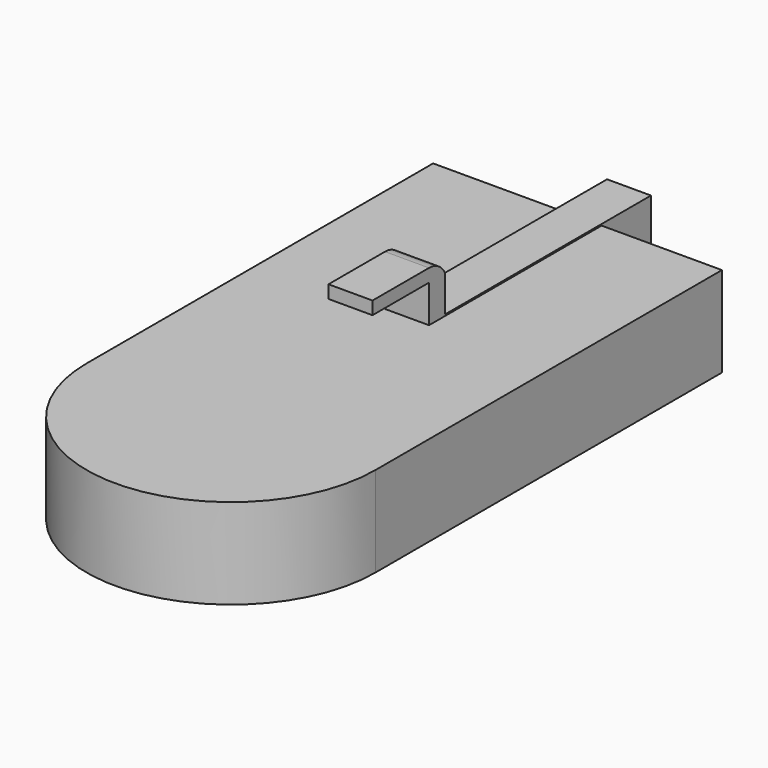
from build123d import *

# Parameters (mm, degrees)
F1_DEPTH = 25
F0_W     = 12.1671715751
F0_H     = 59.7603839328
F0_H_2   = 17.0849451576
F2_DEPTH = 25.4
F3_W     = 12.1671715751
F3_H     = 5.5680888814
F4_DEPTH = 10
F5_W     = 19.571596921
F5_H     = 3.5830507338
F6_DEPTH = 12.192


with BuildPart() as f1:
    # F0 (on Top) → F1 (new body)
    with BuildSketch(Plane.XY):
        Polygon((-6.0835857876, 58.9568352546), (-40.591121614, 58.9568352546), (-40.591121614, -61.0431647454), (39.408878386, -61.0431647454), (39.408878386, 58.9568352546), (6.0835857876, 58.9568352546), (6.0835857876, -0.8035486783), (-6.0835857876, -0.8035486783), align=None)
        with BuildLine():
            Line((39.408878386, -61.0431647454), (-40.591121614, -61.0431647454))
            ThreePointArc((-40.591121614, -61.0431647454), (-0.591121614, -101.0431647454), (39.408878386, -61.0431647454))
        make_face()
    extrude(amount=F1_DEPTH)


with BuildPart() as f2:
    # F0 (on Top) → F2 (new body)
    with BuildSketch(Plane.XY):
        with Locations((0, 29.0766432881)):
            Rectangle(F0_W, F0_H)
        with Locations((0, 67.4993078334)):
            Rectangle(F0_W, F0_H_2)
    extrude(amount=F2_DEPTH)

    # F3 (on face) → F4 (join)
    with BuildSketch(Plane.XY.offset(25.4)):
        with Locations((0, 1.9804957624)):
            Rectangle(F3_W, F3_H)
    extrude(amount=F4_DEPTH)

    # F5 (on face) → F6 (join)
    with BuildSketch(Plane.YZ.offset(6.0835857876)):
        with BuildLine():
            Line((-0.8035486783, 38.9830507338), (-0.8035486783, 35.4))
            Line((-0.8035486783, 35.4), (4.7645402032, 35.4))
            ThreePointArc((4.7645402032, 35.4), (2.5071108615, 38.0098893521), (-0.8035486783, 38.9830507338))
        make_face()
        with Locations((-10.5893471388, 37.1915253669)):
            Rectangle(F5_W, F5_H)
    extrude(amount=-F6_DEPTH)


solid = Compound([f1.part, f2.part])
